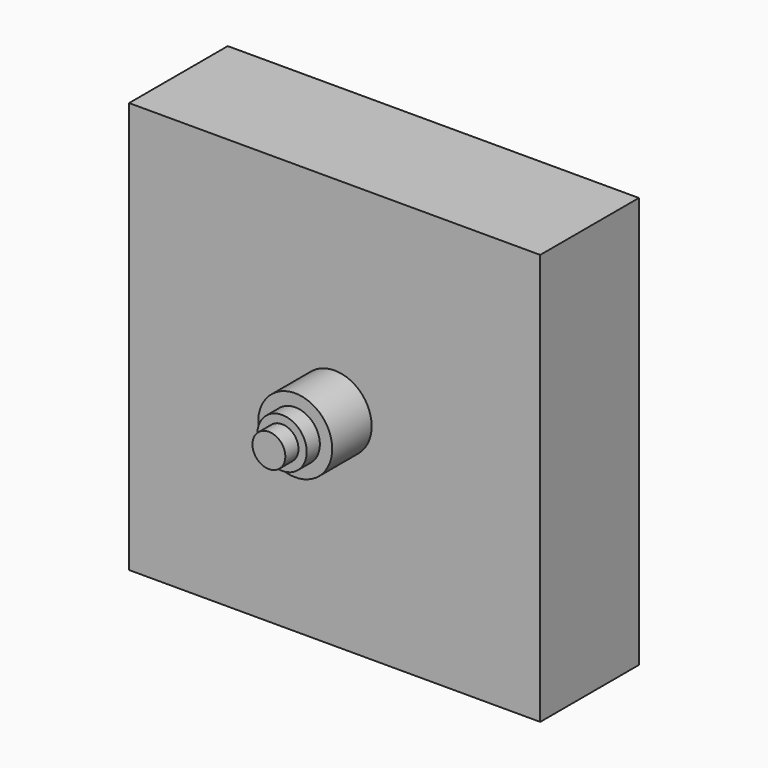
from build123d import *

# Parameters (mm, degrees)
F0_W     = 50
F0_H     = 50
F1_DEPTH = 15
F2_R     = 4.5
F3_DEPTH = 10
F4_R     = 4.5
F4_R_2   = 3
F5_DEPTH = 4
F6_R     = 3
F6_R_2   = 2
F7_DEPTH = 2


with BuildPart() as f1:
    # F0 (on Front) → F1 (new body)
    with BuildSketch(Plane.XZ):
        with Locations((25, 25)):
            Rectangle(F0_W, F0_H)
    extrude(amount=F1_DEPTH)

    # F2 (on face) → F3 (join)
    with BuildSketch(Plane.XZ.offset(15)):
        with Locations((25, 25)):
            Circle(F2_R)
    extrude(amount=F3_DEPTH)

    # F4 (on face) → F5 (cut)
    with BuildSketch(Plane.XZ.offset(25)):
        with Locations((25, 25)):
            Circle(F4_R)
        with Locations((25, 25)):
            Circle(F4_R_2, mode=Mode.SUBTRACT)
    extrude(amount=-F5_DEPTH, mode=Mode.SUBTRACT)

    # F6 (on face) → F7 (cut)
    with BuildSketch(Plane.XZ.offset(25)):
        with Locations((25, 25)):
            Circle(F6_R)
        with Locations((25, 25)):
            Circle(F6_R_2, mode=Mode.SUBTRACT)
    extrude(amount=-F7_DEPTH, mode=Mode.SUBTRACT)


solid = f1.part
